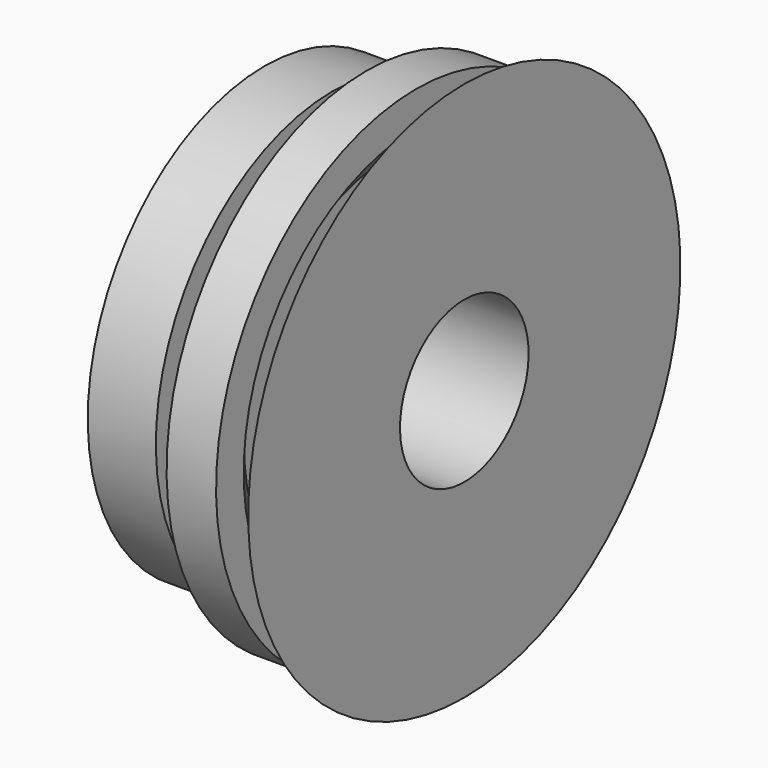
from build123d import *


with BuildPart() as f1:
    # F0 (on Front) → F1 (revolve)
    with BuildSketch(Plane.XZ):
        Polygon((24.293784, 20), (24.293784, 67.23164), (16.15819, 29.491523), (5.76271, 29.491523), (5.76271, 45.310731), (12.316385, 53.672316), (12.316385, 62.259884), (0, 62.259884), (0, 33.757065), (-8.474576, 33.757065), (-8.474576, 55), (-25.423727, 55), (-25.423727, 45), (-17.514123, 45), (-17.514123, 28), (-31.073446, 28), (-31.073446, 20), align=None)
    revolve(axis=Axis((-41.186441, 0, 0), (-1, 0, 0)))


solid = f1.part
